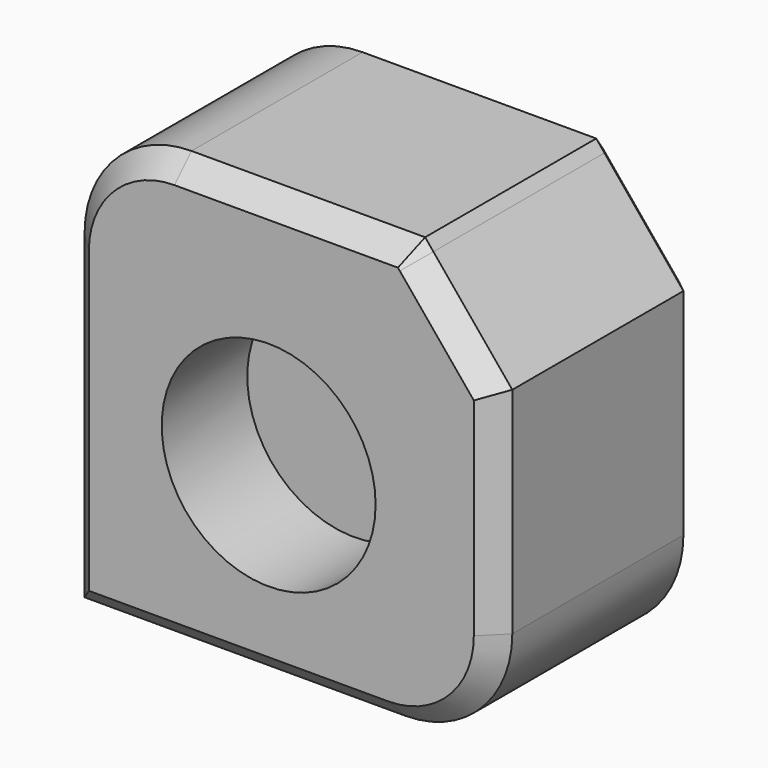
from build123d import *

# Parameters (mm, degrees)
F1_DEPTH = 60
F2_SIZE  = 5
F3_R     = 25
F4_DEPTH = 25


with BuildPart() as f1:
    # F0 (on Front) → F1 (new body)
    with BuildSketch(Plane.XZ):
        with BuildLine():
            Line((32.580328, 24.762304), (-22.035015, 24.762304))
            ThreePointArc((-22.035015, 24.762304), (-39.712685, 17.439974), (-47.035015, -0.237696))
            Line((-47.035015, -0.237696), (-47.035015, -75.237696))
            Line((-47.035015, -75.237696), (27.964985, -75.237696))
            ThreePointArc((27.964985, -75.237696), (45.642654, -67.915365), (52.964985, -50.237696))
            Line((52.964985, -50.237696), (52.964985, 0))
            Line((52.964985, 0), (34.512423, 22.415288))
            Line((34.512423, 22.415288), (32.580328, 24.762304))
        make_face()
    extrude(amount=F1_DEPTH)

    # F2
    f2_edges = [f1.edges().sort_by_distance(p)[0] for p in [
        (-39.712685, -60, 17.439974),
        (5.272656, -60, 24.762304),
        (42.772656, -60, 12.381152),
        (52.964985, -60, -25.118848),
        (45.642654, -60, -67.915365),
        (-9.535015, -60, -75.237696),
        (-47.035015, -60, -37.737696),
        (-39.712685, 0, 17.439974),
        (5.272656, 0, 24.762304),
        (42.772656, 0, 12.381152),
        (45.642654, 0, -67.915365),
        (-9.535015, 0, -75.237696),
    ]]
    chamfer(f2_edges, length=F2_SIZE)

    # F3 (on face) → F4 (cut)
    with BuildSketch(Plane.XZ.offset(60)):
        with Locations((0, -30.696294)):
            Circle(F3_R)
    extrude(amount=-F4_DEPTH, mode=Mode.SUBTRACT)


solid = f1.part
